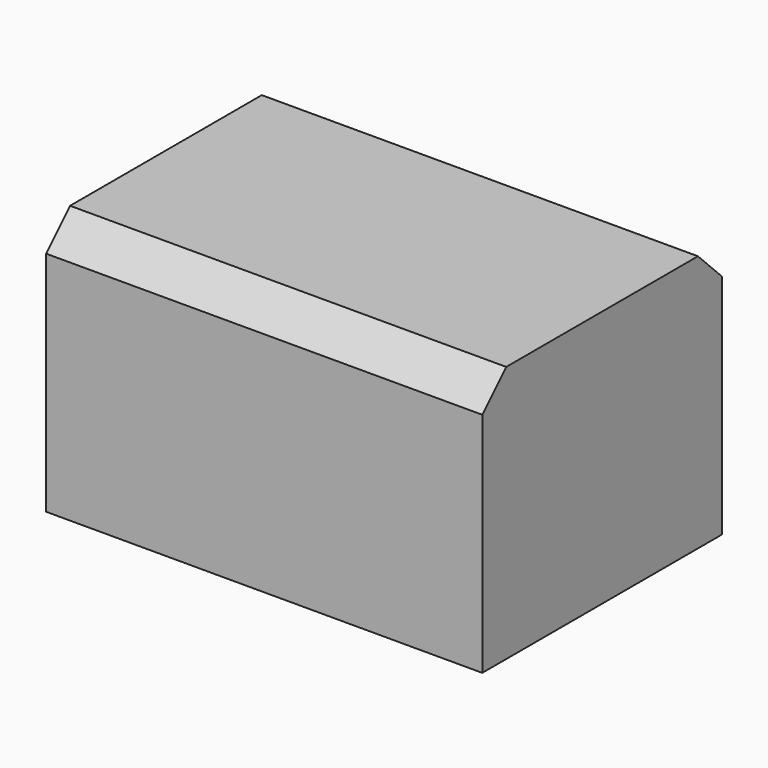
from build123d import *

# Parameters (mm, degrees)
F0_W     = 73.9687271416
F0_H     = 43.6150282621
F1_DEPTH = 25.4
F2_DEPTH = 25.4
F3_SIZE  = 5.08
F4_SIZE  = 5.08


with BuildPart() as f1:
    # F0 (on Front) → F1 (new body)
    with BuildSketch(Plane.XZ):
        with Locations((-1.0314378887, -1.3261325657)):
            Rectangle(F0_W, F0_H)
    extrude(amount=F1_DEPTH)

    # F2 (add): a face of the model
    f2_faces = [f1.faces().sort_by_distance(p)[0] for p in [
        (-1.0314378887, -25.4, -1.3261325657),
    ]]
    extrude(f2_faces, amount=F2_DEPTH)

    # F3
    f3_edges = [f1.edges().sort_by_distance(p)[0] for p in [
        (-1.031438, 0, 20.481382),
    ]]
    chamfer(f3_edges, length=F3_SIZE)

    # F4
    f4_edges = [f1.edges().sort_by_distance(p)[0] for p in [
        (-1.031438, -50.8, 20.481382),
    ]]
    chamfer(f4_edges, length=F4_SIZE)


solid = f1.part
